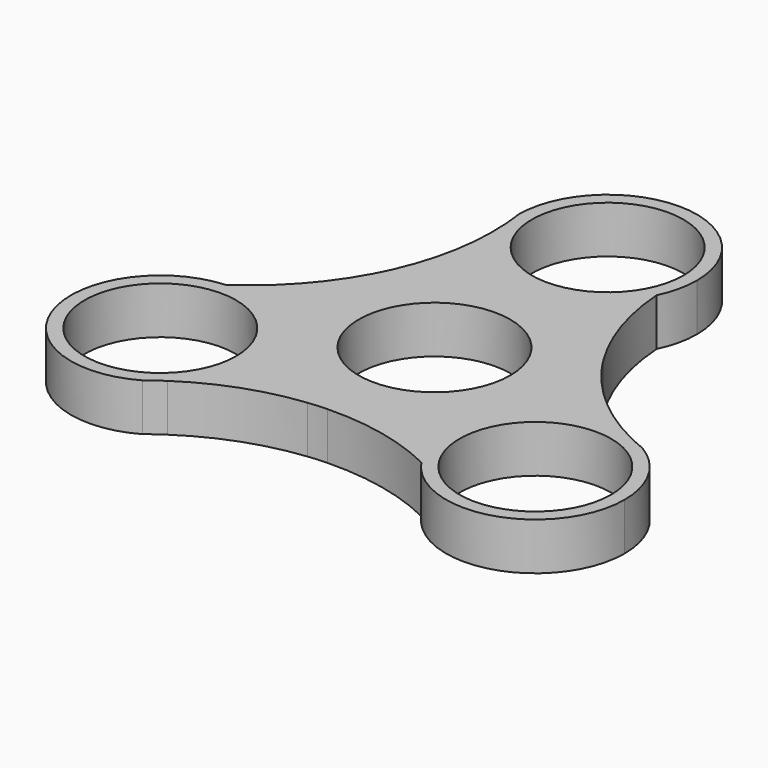
from build123d import *

# Parameters (mm, degrees)
F0_R     = 11.2
F1_DEPTH = 7


with BuildPart() as f1:
    # F0 (on Top) → F1 (new body)
    with BuildSketch(Plane.XY):
        with BuildLine():
            ThreePointArc((-12.895525, 29.18086), (-1.574705, 18.89389), (11.860749, 26.206298))
            ThreePointArc((11.860749, 26.206298), (12.86083, 29.02657), (13.2, 31.999625))
            ThreePointArc((13.2, 31.999625), (0.020836, 45.199609), (-13.199934, 32.041296))
            ThreePointArc((-13.199934, 32.041296), (-13.018937, 30.614142), (-12.895525, 29.18086))
        make_face()
        with Locations((0, 31.999625)):
            Circle(F0_R, mode=Mode.SUBTRACT)
        with BuildLine():
            ThreePointArc((-21.14861, -27.452127), (-20.003156, -26.581801), (-18.823604, -25.758282))
            ThreePointArc((-18.823604, -25.758282), (-15.638275, -21.333982), (-14.512488, -15.999813))
            ThreePointArc((-14.512488, -15.999813), (-18.707332, -6.348535), (-28.625694, -2.831439))
            ThreePointArc((-28.625694, -2.831439), (-40.342892, -19.835554), (-21.14861, -27.452127))
        make_face()
        with Locations((-27.712488, -15.999813)):
            Circle(F0_R, mode=Mode.SUBTRACT)
        with BuildLine():
            ThreePointArc((0.487931, -13.190979), (9.504754, -9.159676), (13.2, 0))
            ThreePointArc((13.2, 0), (13.021497, 2.163471), (12.490817, 4.268429))
            ThreePointArc((12.490817, 4.268429), (11.91487, 5.681186), (11.179757, 7.01805))
            ThreePointArc((11.179757, 7.01805), (1.037384, 13.159173), (-9.941977, 8.68315))
            ThreePointArc((-9.941977, 8.68315), (-10.877486, 7.477987), (-11.667688, 6.172929))
            ThreePointArc((-11.667688, 6.172929), (-11.91487, -5.681186), (-2.54884, -12.95158))
            ThreePointArc((-2.54884, -12.95158), (-1.037384, -13.159173), (0.487931, -13.190979))
        make_face()
        Circle(F0_R, mode=Mode.SUBTRACT)
        with BuildLine():
            ThreePointArc((34.348544, -4.58917), (33.022094, -4.032341), (31.719129, -3.422578))
            ThreePointArc((31.719129, -3.422578), (17.149941, -8.083211), (16.764946, -23.374859))
            ThreePointArc((16.764946, -23.374859), (31.568162, -28.624146), (40.912488, -15.999813))
            ThreePointArc((40.912488, -15.999813), (39.154427, -9.417865), (34.348544, -4.58917))
        make_face()
        with Locations((27.712488, -15.999813)):
            Circle(F0_R, mode=Mode.SUBTRACT)
        with BuildLine():
            ThreePointArc((-11.667688, 6.172929), (-10.877486, 7.477987), (-9.941977, 8.68315))
            Line((-9.941977, 8.68315), (-15.872957, 12.375576))
            ThreePointArc((-15.872957, 12.375576), (-16.452078, 11.131498), (-17.078534, 9.910571))
            Line((-17.078534, 9.910571), (-11.667688, 6.172929))
        make_face()
        with BuildLine():
            ThreePointArc((11.179757, 7.01805), (11.91487, 5.681186), (12.490817, 4.268429))
            Line((12.490817, 4.268429), (18.654042, 7.558596))
            ThreePointArc((18.654042, 7.558596), (17.866199, 8.682168), (17.122073, 9.835159))
            Line((17.122073, 9.835159), (11.179757, 7.01805))
        make_face()
        with BuildLine():
            Line((-0.043539, -19.74573), (0.487931, -13.190979))
            ThreePointArc((0.487931, -13.190979), (-1.037384, -13.159173), (-2.54884, -12.95158))
            Line((-2.54884, -12.95158), (-2.781085, -19.934172))
            ThreePointArc((-2.781085, -19.934172), (-1.414121, -19.813666), (-0.043539, -19.74573))
        make_face()
        with BuildLine():
            ThreePointArc((-9.941977, 8.68315), (1.037384, 13.159173), (11.179757, 7.01805))
            Line((11.179757, 7.01805), (17.122073, 9.835159))
            ThreePointArc((17.122073, 9.835159), (13.492054, 17.699557), (11.860749, 26.206298))
            ThreePointArc((11.860749, 26.206298), (-1.574705, 18.89389), (-12.895525, 29.18086))
            ThreePointArc((-12.895525, 29.18086), (-13.366296, 20.597866), (-15.872957, 12.375576))
            Line((-15.872957, 12.375576), (-9.941977, 8.68315))
        make_face()
        with BuildLine():
            Line((-2.781085, -19.934172), (-2.54884, -12.95158))
            ThreePointArc((-2.54884, -12.95158), (-11.91487, -5.681186), (-11.667688, 6.172929))
            Line((-11.667688, 6.172929), (-17.078534, 9.910571))
            ThreePointArc((-17.078534, 9.910571), (-22.074293, 2.834683), (-28.625694, -2.831439))
            ThreePointArc((-28.625694, -2.831439), (-18.707332, -6.348535), (-14.512488, -15.999813))
            ThreePointArc((-14.512488, -15.999813), (-15.638275, -21.333982), (-18.823604, -25.758282))
            ThreePointArc((-18.823604, -25.758282), (-11.155127, -21.874485), (-2.781085, -19.934172))
        make_face()
        with BuildLine():
            ThreePointArc((12.490817, 4.268429), (13.021497, 2.163471), (13.2, 0))
            ThreePointArc((13.2, 0), (9.504754, -9.159676), (0.487931, -13.190979))
            Line((0.487931, -13.190979), (-0.043539, -19.74573))
            ThreePointArc((-0.043539, -19.74573), (8.582239, -20.53424), (16.764946, -23.374859))
            ThreePointArc((16.764946, -23.374859), (17.149941, -8.083211), (31.719129, -3.422578))
            ThreePointArc((31.719129, -3.422578), (24.521424, 1.276619), (18.654042, 7.558596))
            Line((18.654042, 7.558596), (12.490817, 4.268429))
        make_face()
    extrude(amount=F1_DEPTH)


solid = f1.part
